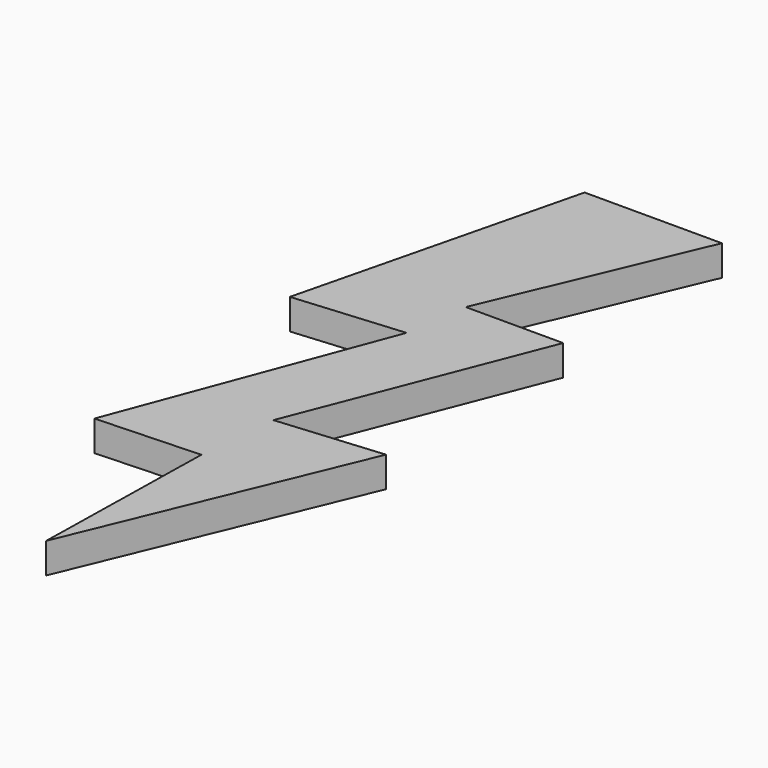
from build123d import *

# Parameters (mm, degrees)
PAD_DEPTH = 5


with BuildPart() as part:
    # Sketch → Pad (new body)
    with BuildSketch(Plane.XY):
        Polygon((-6.510832, 87.489227), (16.016796, 87.489227), (1.458214, 53.158617), (17.431283, 53.158617), (1.804627, 13.266056), (19.05151, 14.805958), (0, -31.083057), (0.606067, 0), (-16.363629, -0.707069), (0, 42.832134), (-17.90609, 41.292233), align=None)
    extrude(amount=PAD_DEPTH)


solid = part.part
